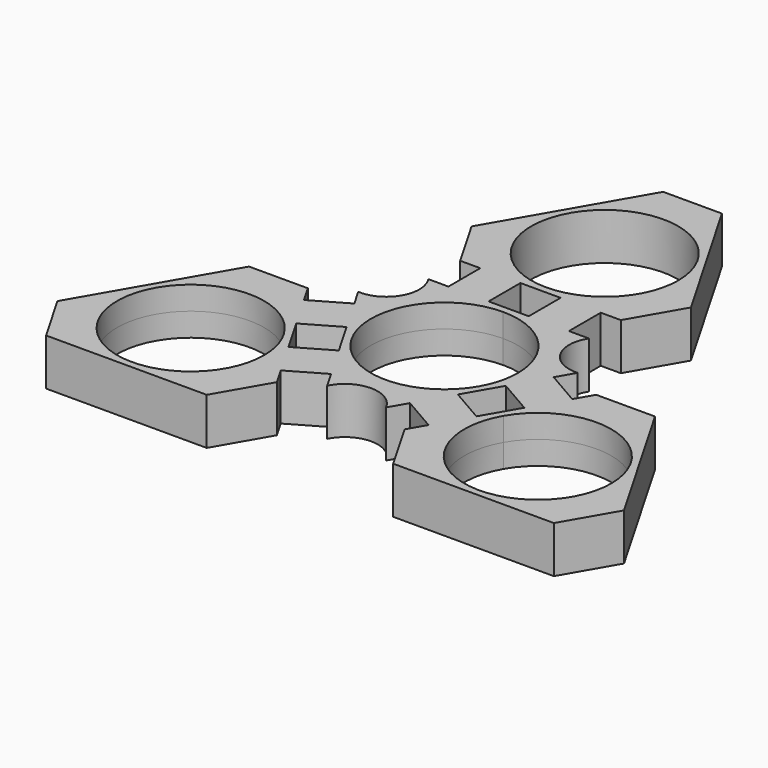
from build123d import *

# Parameters (mm, degrees)
F1_DEPTH = 3.5


with BuildPart() as f1:
    # F0 (on Top) → F1 (new body, symmetric)
    with BuildSketch(Plane.XY):
        Polygon((-3.00520382, 17.9791847198), (0, 17.9791847198), (3.00520382, 17.9791847198), (9.0156114601, 17.9791847198), (12.0208152802, 17.9791847198), (16.4207390469, 25.6000762333), (4.3999237667, 46.4207390469), (-4.3999237667, 46.4207390469), (-16.4207390469, 25.6000762333), (-12.0208152802, 17.9791847198), (-9.0156114601, 17.9791847198), align=None)
        with BuildLine():
            ThreePointArc((11, 30), (7.7781745931, 22.2218254069), (0, 19))
            ThreePointArc((0, 19), (-7.7781745931, 37.7781745931), (11, 30))
        make_face(mode=Mode.SUBTRACT)
        Polygon((-6.0104076401, 12.0208152802), (-3.00520382, 12.0208152802), (-3.00520382, 17.9791847198), (-9.0156114601, 17.9791847198), (-9.0156114601, 12.0208152802), align=None)
        Polygon((3.00520382, 17.9791847198), (3.00520382, 12.0208152802), (6.0104076401, 12.0208152802), (9.0156114601, 12.0208152802), (9.0156114601, 17.9791847198), align=None)
        with BuildLine():
            ThreePointArc((0, 11), (7.7781745931, 7.7781745931), (11, 0))
            ThreePointArc((11, 0), (10.6251840892, -2.8470094961), (9.5262794416, -5.5))
            Line((9.5262794416, -5.5), (10.4103314068, -6.0104076401))
            Line((10.4103314068, -6.0104076401), (11.9129333168, -3.4078247884))
            Line((11.9129333168, -3.4078247884), (14.9181371369, 1.797340915))
            Line((14.9181371369, 1.797340915), (16.4207390469, 4.3999237667))
            ThreePointArc((16.4207390469, 4.3999237667), (11.8735283026, 6.8551847617), (12.0208152802, 12.0208152802))
            Line((12.0208152802, 12.0208152802), (9.0156114601, 12.0208152802))
            Line((9.0156114601, 12.0208152802), (6.0104076401, 12.0208152802))
            Line((6.0104076401, 12.0208152802), (3.00520382, 12.0208152802))
            Line((3.00520382, 12.0208152802), (0, 12.0208152802))
            Line((0, 12.0208152802), (0, 11))
        make_face()
        with BuildLine():
            ThreePointArc((-9.5262794416, -5.5), (-9.5262794416, 5.5), (0, 11))
            Line((0, 11), (0, 12.0208152802))
            Line((0, 12.0208152802), (-3.00520382, 12.0208152802))
            Line((-3.00520382, 12.0208152802), (-6.0104076401, 12.0208152802))
            Line((-6.0104076401, 12.0208152802), (-9.0156114601, 12.0208152802))
            Line((-9.0156114601, 12.0208152802), (-12.0208152802, 12.0208152802))
            ThreePointArc((-12.0208152802, 12.0208152802), (-11.8735283026, 6.8551847617), (-16.4207390469, 4.3999237667))
            Line((-16.4207390469, 4.3999237667), (-14.9181371369, 1.797340915))
            Line((-14.9181371369, 1.797340915), (-11.9129333168, -3.4078247884))
            Line((-11.9129333168, -3.4078247884), (-10.4103314068, -6.0104076401))
            Line((-10.4103314068, -6.0104076401), (-9.5262794416, -5.5))
        make_face()
        with BuildLine():
            Line((10.4103314068, -6.0104076401), (9.5262794416, -5.5))
            ThreePointArc((9.5262794416, -5.5), (0, -11), (-9.5262794416, -5.5))
            Line((-9.5262794416, -5.5), (-10.4103314068, -6.0104076401))
            Line((-10.4103314068, -6.0104076401), (-8.9077294968, -8.6129904918))
            Line((-8.9077294968, -8.6129904918), (-5.9025256768, -13.8181561952))
            Line((-5.9025256768, -13.8181561952), (-4.3999237667, -16.4207390469))
            ThreePointArc((-4.3999237667, -16.4207390469), (0, -13.7103695235), (4.3999237667, -16.4207390469))
            Line((4.3999237667, -16.4207390469), (5.9025256768, -13.8181561952))
            Line((5.9025256768, -13.8181561952), (8.9077294968, -8.6129904918))
            Line((8.9077294968, -8.6129904918), (10.4103314068, -6.0104076401))
        make_face()
        Polygon((-5.9025256768, -13.8181561952), (-8.9077294968, -8.6129904918), (-14.0678287967, -11.5921752116), (-11.0626249766, -16.797340915), align=None)
        Polygon((-17.0730326167, -6.3870095082), (-11.9129333168, -3.4078247884), (-14.9181371369, 1.797340915), (-20.0782364368, -1.1818438048), align=None)
        Polygon((-14.0678287967, -11.5921752116), (-15.5704307067, -8.9895923599), (-17.0730326167, -6.3870095082), (-20.0782364368, -1.1818438048), (-21.5808383468, 1.4207390469), (-30.3806858803, 1.4207390469), (-42.4015011604, -19.3999237667), (-38.0015773937, -27.0208152802), (-13.9599468334, -27.0208152802), (-9.5600230666, -19.3999237667), (-11.0626249766, -16.797340915), align=None)
        with BuildLine():
            ThreePointArc((-14.9807621135, -15), (-36.6059462027, -17.8470094961), (-16.4544826719, -9.5))
            ThreePointArc((-16.4544826719, -9.5), (-15.3555780244, -12.1529905039), (-14.9807621135, -15))
        make_face(mode=Mode.SUBTRACT)
        Polygon((14.9181371369, 1.797340915), (11.9129333168, -3.4078247884), (17.0730326167, -6.3870095082), (20.0782364368, -1.1818438048), align=None)
        Polygon((14.0678287967, -11.5921752116), (8.9077294968, -8.6129904918), (5.9025256768, -13.8181561952), (11.0626249766, -16.797340915), align=None)
        Polygon((17.0730326167, -6.3870095082), (15.5704307067, -8.9895923599), (14.0678287967, -11.5921752116), (11.0626249766, -16.797340915), (9.5600230666, -19.3999237667), (13.9599468334, -27.0208152802), (38.0015773937, -27.0208152802), (42.4015011604, -19.3999237667), (30.3806858803, 1.4207390469), (21.5808383468, 1.4207390469), (20.0782364368, -1.1818438048), align=None)
        with BuildLine():
            ThreePointArc((36.9807621135, -15), (23.1337526174, -25.6251840892), (16.4544826719, -9.5))
            ThreePointArc((16.4544826719, -9.5), (28.8277716097, -4.3748159108), (36.9807621135, -15))
        make_face(mode=Mode.SUBTRACT)
    extrude(amount=F1_DEPTH, both=True)


solid = f1.part
